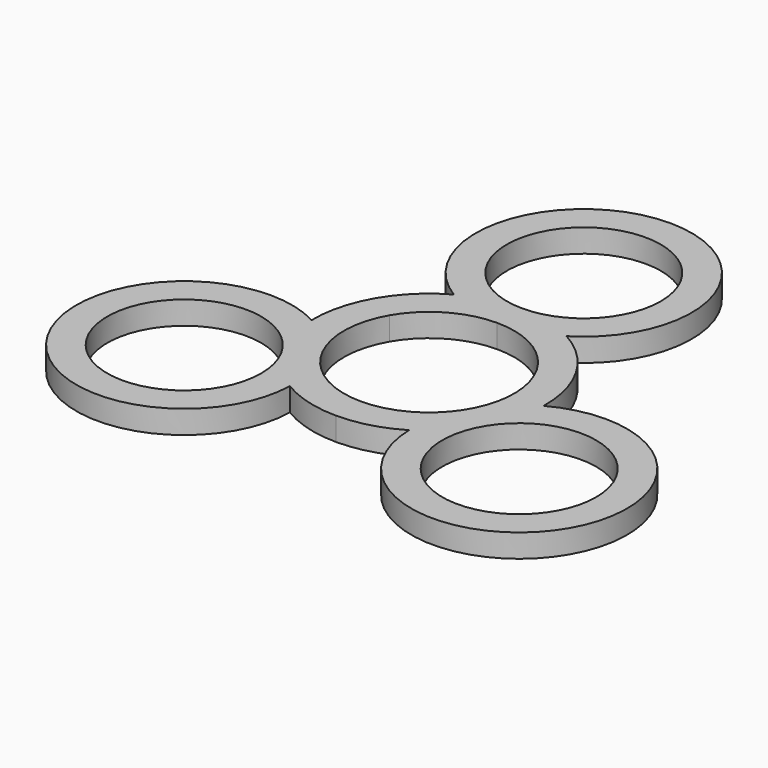
from build123d import *

# Parameters (mm, degrees)
F0_R     = 9.95
F1_DEPTH = 3


with BuildPart() as f1:
    # F0 (on Top) → F1 (new body)
    with BuildSketch(Plane.XY):
        with BuildLine():
            ThreePointArc((7.292575, 13.10795), (0, 38.95), (-7.292575, 13.10795))
            ThreePointArc((-7.292575, 13.10795), (-10.52197, 10.690564), (-12.990381, 7.5))
            ThreePointArc((-12.990381, 7.5), (-14.519285, 3.767011), (-14.998105, -0.23842))
            ThreePointArc((-14.998105, -0.23842), (-33.731689, -19.475), (-7.70553, -12.86953))
            ThreePointArc((-7.70553, -12.86953), (-3.997315, -14.457575), (0, -15))
            ThreePointArc((0, -15), (3.997315, -14.457575), (7.70553, -12.86953))
            ThreePointArc((7.70553, -12.86953), (33.731689, -19.475), (14.998105, -0.23842))
            ThreePointArc((14.998105, -0.23842), (14.519285, 3.767011), (12.990381, 7.5))
            ThreePointArc((12.990381, 7.5), (10.52197, 10.690564), (7.292575, 13.10795))
        make_face()
        with Locations((-21.650635, -12.5)):
            Circle(F0_R, mode=Mode.SUBTRACT)
        with Locations((21.650635, -12.5)):
            Circle(F0_R, mode=Mode.SUBTRACT)
        with BuildLine():
            ThreePointArc((0, 11), (5.5, 9.526279), (9.526279, 5.5))
            ThreePointArc((9.526279, 5.5), (9.526279, -5.5), (0, -11))
            ThreePointArc((0, -11), (-9.526279, -5.5), (-9.526279, 5.5))
            ThreePointArc((-9.526279, 5.5), (-5.5, 9.526279), (0, 11))
        make_face(mode=Mode.SUBTRACT)
        with BuildLine():
            ThreePointArc((9.95, 25), (7.035712, 17.964288), (0, 15.05))
            ThreePointArc((0, 15.05), (-7.035712, 32.035712), (9.95, 25))
        make_face(mode=Mode.SUBTRACT)
    extrude(amount=F1_DEPTH)


solid = f1.part
